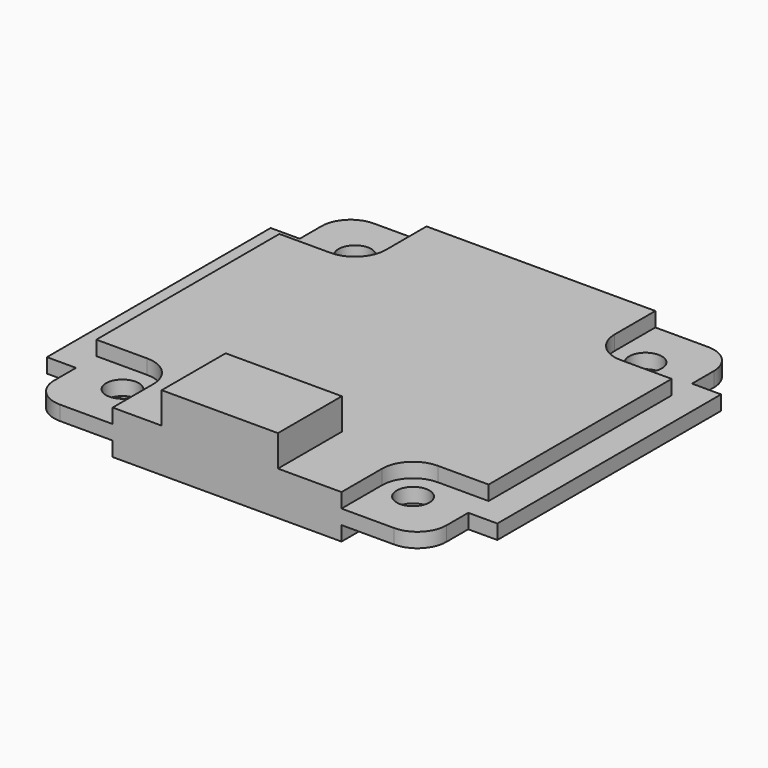
from build123d import *

# Parameters (mm, degrees)
F0_W          = 2
F0_H          = 19.25
F1_DEPTH      = 1
F2_R          = 2
F3_D          = 2.25
F4_W          = 8
F4_H          = 5.5
F5_DEPTH      = 3.15
F7_DEPTH      = 2
F7_DEPTH_BACK = 1


with BuildPart() as f1:
    # F0 (on Top) → F1 (new body)
    with BuildSketch(Plane.XY):
        Polygon((13.5, 9.625), (13.5, 13.5), (-13.5, 13.5), (-13.5, 9.625), (-13.5, -9.625), (-13.5, -13.5), (13.5, -13.5), (13.5, -9.625), align=None)
        with Locations((14.5, 0)):
            Rectangle(F0_W, F0_H)
        with Locations((-14.5, 0)):
            Rectangle(F0_W, F0_H)
    extrude(amount=F1_DEPTH)

    # F2
    f2_edges = [f1.edges().sort_by_distance(p)[0] for p in [
        (-13.5, -13.5, 0.5),
        (13.5, -13.5, 0.5),
        (13.5, 13.5, 0.5),
        (-13.5, 13.5, 0.5),
    ]]
    fillet(f2_edges, radius=F2_R)

    # F3 (through all)
    with Locations(Plane(origin=(0, 0, 0), x_dir=(1, 0, 0), z_dir=(0, 0, -1))):
        with Locations((-10, 10), (10, 10), (10, -10), (-10, -10)):
            Hole(F3_D / 2)

    # F4 (on face) → F5 (join)
    with BuildSketch(Plane.XY.offset(1)):
        with Locations((-0.5, -10.75)):
            Rectangle(F4_W, F4_H)
    extrude(amount=F5_DEPTH)

    # F6 (on Top) → F7 (join, two sides)
    with BuildSketch(Plane.XY) as f7_sk:
        with BuildLine():
            Line((-7.875, -13.5), (7.875, -13.5))
            Line((7.875, -13.5), (7.875, -10))
            ThreePointArc((7.875, -10), (8.497398, -8.497398), (10, -7.875))
            Line((10, -7.875), (13.5, -7.875))
            Line((13.5, -7.875), (13.5, 7.875))
            Line((13.5, 7.875), (10, 7.875))
            ThreePointArc((10, 7.875), (8.497398, 8.497398), (7.875, 10))
            Line((7.875, 10), (7.875, 13.5))
            Line((7.875, 13.5), (-7.875, 13.5))
            Line((-7.875, 13.5), (-7.875, 10))
            ThreePointArc((-7.875, 10), (-8.497398, 8.497398), (-10, 7.875))
            Line((-10, 7.875), (-13.5, 7.875))
            Line((-13.5, 7.875), (-13.5, -7.875))
            Line((-13.5, -7.875), (-10, -7.875))
            ThreePointArc((-10, -7.875), (-8.497398, -8.497398), (-7.875, -10))
            Line((-7.875, -10), (-7.875, -13.5))
        make_face()
    extrude(amount=F7_DEPTH)
    extrude(f7_sk.sketch, amount=-F7_DEPTH_BACK)


solid = f1.part
